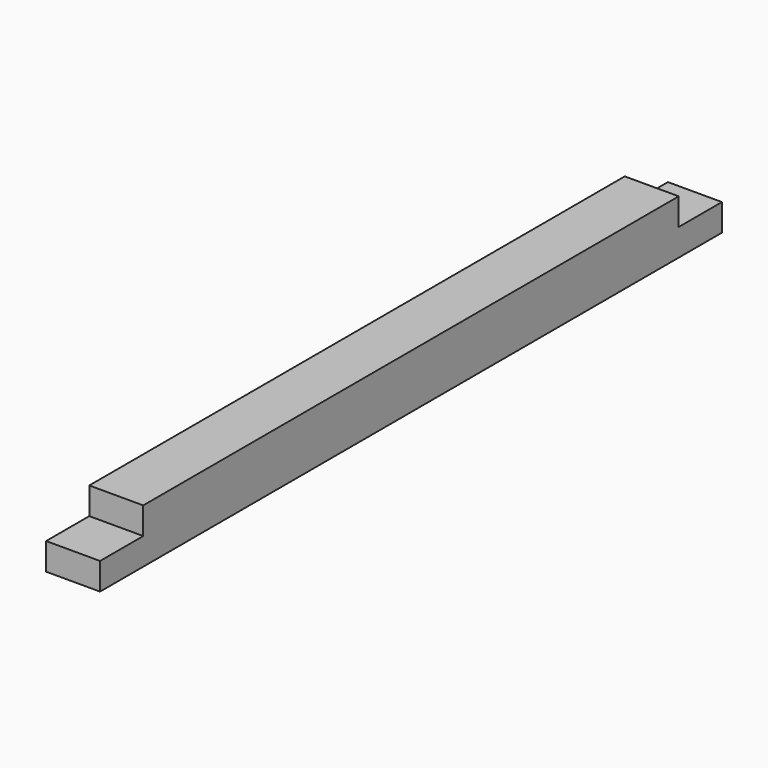
from build123d import *

# Parameters (mm, degrees)
F0_W     = 10
F0_H     = 10
F1_DEPTH = 144
F2_W     = 10
F2_H     = 5
F3_DEPTH = 10


with BuildPart() as f1:
    # F0 (on Front) → F1 (new body)
    with BuildSketch(Plane.XZ):
        Rectangle(F0_W, F0_H)
    extrude(amount=F1_DEPTH)

    # F2 (on face) → F3 (cut)
    with BuildSketch(Plane.YZ.offset(5)):
        with Locations((-139, 2.5)):
            Rectangle(F2_W, F2_H)
        with Locations((-5, 2.5)):
            Rectangle(F2_W, F2_H)
    extrude(amount=-F3_DEPTH, mode=Mode.SUBTRACT)


solid = f1.part
